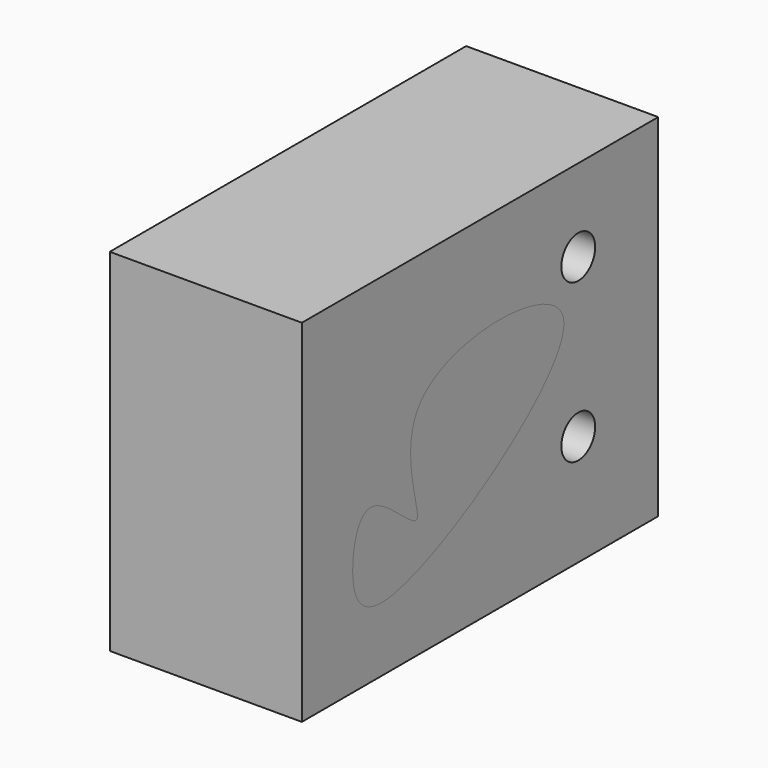
from build123d import *

# Parameters (mm, degrees)
F0_W           = 57.9754635692
F0_H           = 45.7361973822
F1_DEPTH       = 25
F3_D           = 5.5
F3_CBORE_D     = 9.75
F3_CBORE_DEPTH = 5
F5_DEPTH       = 25


with BuildPart() as f1:
    # F0 (on Right) → F1 (new body)
    with BuildSketch(Plane.YZ):
        Rectangle(F0_W, F0_H)
    extrude(amount=F1_DEPTH)

    # F3 (through all)
    with Locations(Plane(origin=(0, 0, 0), x_dir=(0, -1, 0), z_dir=(-1, 0, 0))):
        with Locations((-15.9770362079, 12.1367974207), (-15.9770362079, -8.4434468299)):
            CounterBoreHole(F3_D / 2, F3_CBORE_D / 2, F3_CBORE_DEPTH)


with BuildPart() as f5:
    # F4 (on face) → F5 (new body, through all)
    with BuildSketch(Plane.YZ.offset(25)):
        with BuildLine():
            add(Edge.make_bspline(
                [(-15.8557053655, -14.4815444946), (-19.8220740843, -14.5616277486), (-21.6897943039, -9.0108058465), (-18.5944949913, 0.8703826041), (-6.2553063156, -13.270999999), (-18.4529947512, 11.8270859646), (33.6915456836, 11.1774729794), (-7.2626970023, -14.3080467388), (-15.8557053655, -14.4815444946)],
                knots=[0, 0, 0, 0, 0.1221259976, 0.2348792299, 0.3631324209, 0.5216303154, 0.7354180126, 1, 1, 1, 1], degree=3))
        make_face()
    extrude(amount=-F5_DEPTH)


solid = Compound([f1.part, f5.part])
